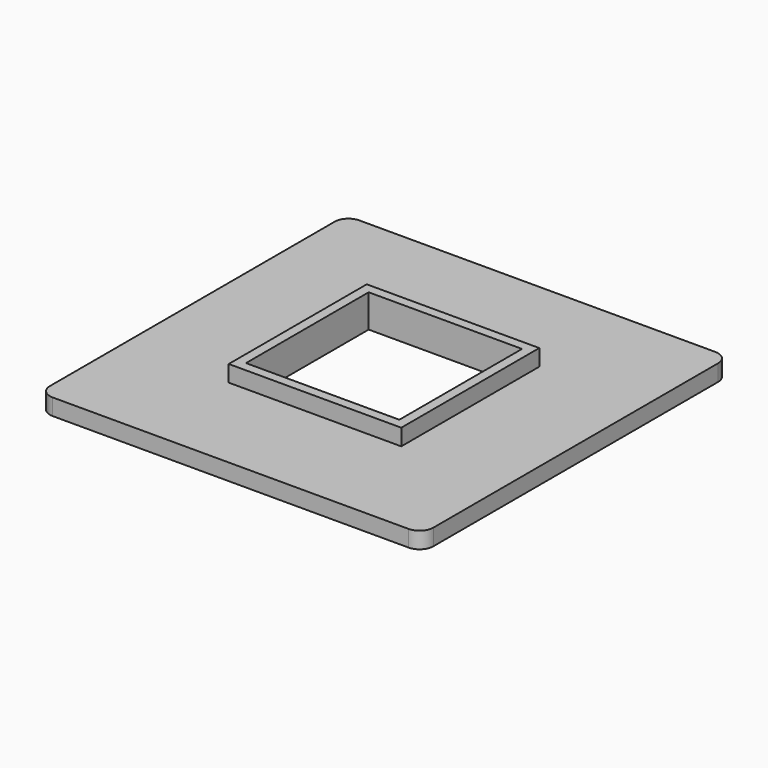
from build123d import *

# Parameters (mm, degrees)
SKETCH001_W  = 70
SKETCH001_H  = 70
PAD001_DEPTH = 3
FILLET001_R  = 2.5
SKETCH002_W  = 31.5
SKETCH002_H  = 31.5
PAD002_DEPTH = 3
SKETCH003_W  = 28
SKETCH003_H  = 28
POCKET_DEPTH = 6.001


with BuildPart() as part:
    # Sketch001 → Pad001 (new body)
    with BuildSketch(Plane.XY):
        with Locations((35, 35)):
            Rectangle(SKETCH001_W, SKETCH001_H)
    extrude(amount=-PAD001_DEPTH)

    # Fillet001
    fillet001_edges = [part.edges().sort_by_distance(p)[0] for p in [
        (70, 70, -1.5),
        (0, 70, -1.5),
        (70, 0, -1.5),
        (0, 0, -1.5),
    ]]
    fillet(fillet001_edges, radius=FILLET001_R)

    # Sketch002 (on Face2 of Fillet001) → Pad002 (join)
    with BuildSketch(Plane.XY):
        with Locations((35, 35)):
            Rectangle(SKETCH002_W, SKETCH002_H)
    extrude(amount=PAD002_DEPTH)

    # Sketch003 (on Face15 of Pad002) → Pocket (cut, through all)
    with BuildSketch(Plane.XY.offset(3)):
        with Locations((35, 35)):
            Rectangle(SKETCH003_W, SKETCH003_H)
    extrude(amount=-POCKET_DEPTH, mode=Mode.SUBTRACT)


solid = part.part
